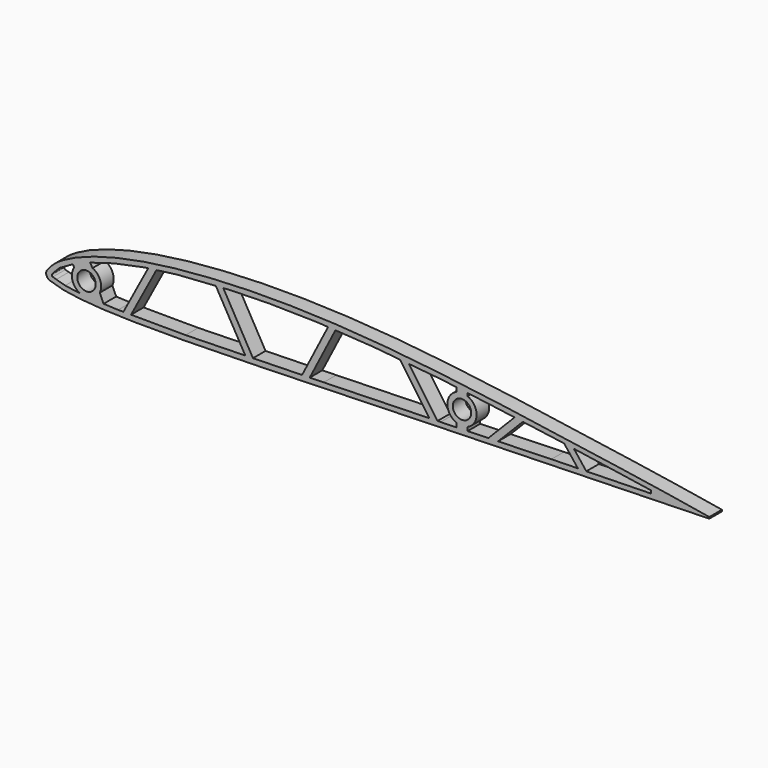
from build123d import *

# Parameters (mm, degrees)
PAD057_DEPTH    = 7
POCKET079_DEPTH = 9
SKETCH140_W     = 89.545105
SKETCH140_H     = 96.443817
POCKET080_DEPTH = 2.5
SKETCH141_R     = 4.1
PAD058_DEPTH    = 7


with BuildPart() as part:
    # Sketch138 → Pad057 (new body)
    with BuildSketch(Plane.XZ):
        with BuildLine():
            add(Edge.make_bspline(
                [(299.999063, 0.026825), (299.662766, 0.037193), (298.339429, 0.190401), (295.439956, 0.589669), (290.775356, 1.337839), (284.500044, 2.393262), (276.735212, 3.66473), (267.577355, 5.083019), (257.136483, 6.653879), (245.549215, 8.381993), (232.975291, 10.222771), (219.590016, 12.153256), (205.573823, 14.115503), (191.111579, 16.055183), (176.381713, 17.897983), (161.544489, 19.553409), (146.739309, 20.940939), (132.087536, 21.99009), (117.705275, 22.664279), (103.703346, 22.961168), (90.192549, 22.858072), (77.284675, 22.375726), (65.094168, 21.544938), (53.730431, 20.369385), (43.29002, 18.857963), (33.852484, 17.043697), (25.485501, 14.967735), (18.252292, 12.67281), (12.179436, 10.224412), (7.338355, 7.689021), (3.623023, 5.152403), (1.3546, 2.748114), (-0.314638, 0.590402), (0.575789, -1.804065), (3.482069, -2.72942), (7.386052, -3.91761), (13.030922, -4.754284), (20.096342, -5.463024), (28.645402, -5.933379), (38.56853, -6.201185), (49.790194, -6.284208), (62.196701, -6.193111), (75.660953, -5.967607), (90.034637, -5.629522), (105.153445, -5.226063), (120.83724, -4.775199), (136.895942, -4.296045), (153.13493, -3.818601), (169.356828, -3.345106), (185.36574, -2.889379), (200.968742, -2.465331), (215.974941, -2.074889), (230.201502, -1.715375), (243.47905, -1.394255), (255.639348, -1.103787), (266.55871, -0.849968), (276.034544, -0.603524), (284.209012, -0.340437), (290.324953, -0.117215), (295.955653, 0.018504), (297.364702, 0.013759), (300.343856, 0.01512), (300.000055, 0.026794), (299.999063, 0.026825)],
                knots=[0, 0, 0, 0, 1.017748, 3.99659, 8.779341, 15.189917, 23.087031, 32.383824, 42.990765, 54.76218, 67.530065, 81.114584, 95.333435, 109.988542, 124.889458, 139.866624, 154.774633, 169.496697, 183.930349, 197.964304, 211.506735, 224.45797, 236.709214, 248.156653, 258.723012, 268.346769, 276.97692, 284.567784, 291.102108, 296.573756, 300.992679, 304.39163, 306.761357, 308.43213, 311.131254, 315.298227, 320.951765, 328.080828, 336.654655, 346.609821, 357.866231, 370.316475, 383.83025, 398.264023, 413.449345, 429.202773, 445.334827, 461.646891, 477.940787, 494.021253, 509.693044, 524.767168, 539.054704, 552.387642, 564.607107, 575.560217, 585.109622, 593.180747, 599.700326, 604.53767, 607.540683, 608.560842, 608.563842, 608.563842, 608.563842, 608.563842], degree=3))
        make_face()
    extrude(amount=PAD057_DEPTH)

    # Sketch139 (on Face3 of Pad057) → Pocket079 (cut)
    with BuildSketch(Plane.XZ.offset(7)):
        with BuildLine():
            Line((2.713263, 0.775372), (3.386703, 1.523026))
            Line((3.386703, 1.523026), (5.993214, 4.179621))
            Line((5.993214, 4.179621), (11.230826, 7.180706))
            Line((11.230826, 7.180706), (18.928726, 10.492708))
            Line((18.928726, 10.492708), (30.015602, 13.804502))
            Line((30.015602, 13.804502), (43.705284, 16.658491))
            Line((43.705284, 16.658491), (58.37534, 18.58366))
            Line((58.37534, 18.58366), (81.932846, 20.199753))
            Line((81.932846, 20.199753), (99.115959, 20.581533))
            Line((99.115959, 20.581533), (120.506348, 20.199753))
            Line((120.506348, 20.199753), (145.772324, 18.655943))
            Line((145.772324, 18.655943), (175.747543, 15.772772))
            Line((175.747543, 15.772772), (200.435547, 12.569891))
            Line((200.435547, 12.569891), (229.384109, 8.602522))
            Line((229.384109, 8.602522), (252.135086, 5.213018))
            Line((252.135086, 5.213018), (269.069916, 2.671427))
            Line((269.069916, 2.671427), (269.069916, 1.39956))
            Line((269.069916, 1.39956), (224.761032, 0.436598))
            Line((224.761032, 0.436598), (175.486649, -1.027315))
            Line((175.486649, -1.027315), (123.47789, -2.412929))
            Line((123.47789, -2.412929), (62.077515, -3.876549))
            Line((62.077515, -3.876549), (32.052879, -3.760909))
            Line((32.052879, -3.760909), (18.887957, -3.18288))
            Line((18.887957, -3.18288), (12.728564, -2.489715))
            Line((12.728564, -2.489715), (8.493419, -1.872198))
            Line((8.493419, -1.872198), (4.562357, -0.768246))
            Line((4.562357, -0.768246), (3.013953, -0.301296))
            ThreePointArc((2.713263, 0.775372), (2.567567, 0.15436), (3.013953, -0.301296))
        make_face()
    extrude(amount=-POCKET079_DEPTH, mode=Mode.SUBTRACT)

    # Sketch140 → Pocket080 (cut, symmetric)
    with BuildSketch(Plane.XY):
        with Locations((339.772552, -30.852761)):
            Rectangle(SKETCH140_W, SKETCH140_H)
    extrude(amount=POCKET080_DEPTH, both=True, mode=Mode.SUBTRACT)

    # Sketch141 (on Face4 of Pocket080) → Pad058 (join)
    with BuildSketch(Plane.XZ.offset(7)):
        Polygon((45.883972, 17.721869), (33.929979, -4.654965), (37.331221, -4.654965), (49.864502, 18.806244), align=None)
        with BuildLine():
            ThreePointArc((12.49229, 6.45183), (11.877033, 0.818423), (15.915785, -3.156789))
            Line((15.915785, -3.156789), (16.615922, -4.582716))
            Line((16.615922, -4.582716), (26.093039, -4.582716))
            Line((23.927186, 0.331954), (26.093039, -4.582716))
            ThreePointArc((23.927186, 0.331954), (24.083233, 5.290038), (20.696327, 8.914374))
            Line((20.696327, 8.914374), (19.191151, 11.361285))
            Line((11.725203, 8.211095), (19.191151, 11.361285))
            Line((12.49229, 6.45183), (11.725203, 8.211095))
        make_face()
        with Locations((18, 3)):
            Circle(SKETCH141_R, mode=Mode.SUBTRACT)
        Polygon((74.837349, 20.968384), (89.206329, -4.249731), (92.659144, -4.249731), (78.184032, 21.154647), align=None)
        Polygon((113.371621, -3.617416), (125.992361, 20.986459), (129.33754, 20.934824), (116.743287, -3.617416), align=None)
        Polygon((156.489991, 19.012594), (171.223801, -2.187052), (175.064011, -2.455857), (160.385949, 18.663577), align=None)
        Polygon((195.991472, -1.145031), (209.190294, 12.320477), (213.439896, 12.370226), (200.19231, -1.145031), align=None)
        Polygon((229.837707, 9.194464), (237.095519, 0), (240.917549, 0), (234.226173, 8.476883), align=None)
        with BuildLine():
            ThreePointArc((182.5, 13), (178.5, 7), (182.5, 1))
            Line((182.5, 1), (182.5, -1.799935))
            Line((182.5, -1.799935), (187.5, -1.799935))
            Line((187.5, -1.799935), (187.5, 1))
            ThreePointArc((187.5, 1), (191.5, 7), (187.5, 13))
            Line((187.5, 15.534908), (187.5, 13))
            Line((182.5, 15.936711), (187.5, 15.534908))
            Line((182.5, 13), (182.5, 15.936711))
        make_face()
        with Locations((185, 7)):
            Circle(SKETCH141_R, mode=Mode.SUBTRACT)
    extrude(amount=-PAD058_DEPTH)


with BuildPart() as part_1:
    # Body033 placement: moved
    add(part.part.moved(Location((0, -968, 0))))


solid = part_1.part
